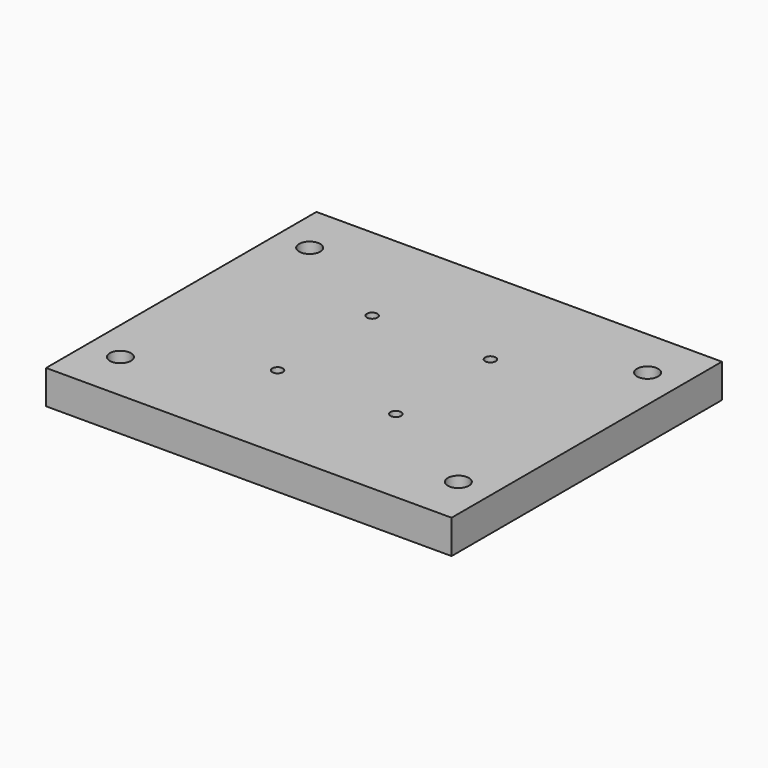
from build123d import *

# Parameters (mm, degrees)
F0_W     = 304.8
F0_H     = 254
F1_DEPTH = 25.4
F2_R     = 3.96875
F3_DEPTH = 25.4
F4_R     = 9.525
F4_R_2   = 3.96875
F5_DEPTH = 9.525
F2_R_2   = 7.9375
F6_DEPTH = 25.4


with BuildPart() as f1:
    # F0 (on Top) → F1 (new body)
    with BuildSketch(Plane.XY):
        with Locations((152.4, 127)):
            Rectangle(F0_W, F0_H)
    extrude(amount=-F1_DEPTH)

    # F2 (on face) → F3 (cut)
    with BuildSketch(Plane.XY):
        with Locations((107.95, 171.45)):
            Circle(F2_R)
        with Locations((196.85, 171.45)):
            Circle(F2_R)
        with Locations((196.85, 82.55)):
            Circle(F2_R)
        with Locations((107.95, 82.55)):
            Circle(F2_R)
    extrude(amount=-F3_DEPTH, mode=Mode.SUBTRACT)

    # F4 (on face) → F5 (cut)
    with BuildSketch(Plane(origin=(0, 0, -25.4), x_dir=(1, 0, 0), z_dir=(0, 0, -1))):
        with Locations((107.95, -171.45)):
            Circle(F4_R)
        with Locations((107.95, -171.45)):
            Circle(F4_R_2, mode=Mode.SUBTRACT)
        with Locations((196.85, -171.45)):
            Circle(F4_R)
        with Locations((196.85, -171.45)):
            Circle(F4_R_2, mode=Mode.SUBTRACT)
        with Locations((107.95, -82.55)):
            Circle(F4_R)
        with Locations((107.95, -82.55)):
            Circle(F4_R_2, mode=Mode.SUBTRACT)
        with Locations((196.85, -82.55)):
            Circle(F4_R)
        with Locations((196.85, -82.55)):
            Circle(F4_R_2, mode=Mode.SUBTRACT)
        with Locations((107.95, -82.55)):
            Circle(F4_R)
        with Locations((107.95, -82.55)):
            Circle(F4_R_2, mode=Mode.SUBTRACT)
        with Locations((196.85, -82.55)):
            Circle(F4_R)
        with Locations((196.85, -82.55)):
            Circle(F4_R_2, mode=Mode.SUBTRACT)
        with Locations((196.85, -171.45)):
            Circle(F4_R)
        with Locations((196.85, -171.45)):
            Circle(F4_R_2, mode=Mode.SUBTRACT)
        with Locations((107.95, -171.45)):
            Circle(F4_R)
        with Locations((107.95, -171.45)):
            Circle(F4_R_2, mode=Mode.SUBTRACT)
    extrude(amount=-F5_DEPTH, mode=Mode.SUBTRACT)

    # F2 (on face) → F6 (cut)
    with BuildSketch(Plane.XY):
        with Locations((107.95, 171.45)):
            Circle(F2_R)
        with Locations((196.85, 171.45)):
            Circle(F2_R)
        with Locations((107.95, 82.55)):
            Circle(F2_R)
        with Locations((196.85, 82.55)):
            Circle(F2_R)
        with Locations((25.4, 215.9)):
            Circle(F2_R_2)
        with Locations((279.4, 215.9)):
            Circle(F2_R_2)
        with Locations((279.4, 38.1)):
            Circle(F2_R_2)
        with Locations((25.4, 38.1)):
            Circle(F2_R_2)
    extrude(amount=-F6_DEPTH, mode=Mode.SUBTRACT)


solid = f1.part
